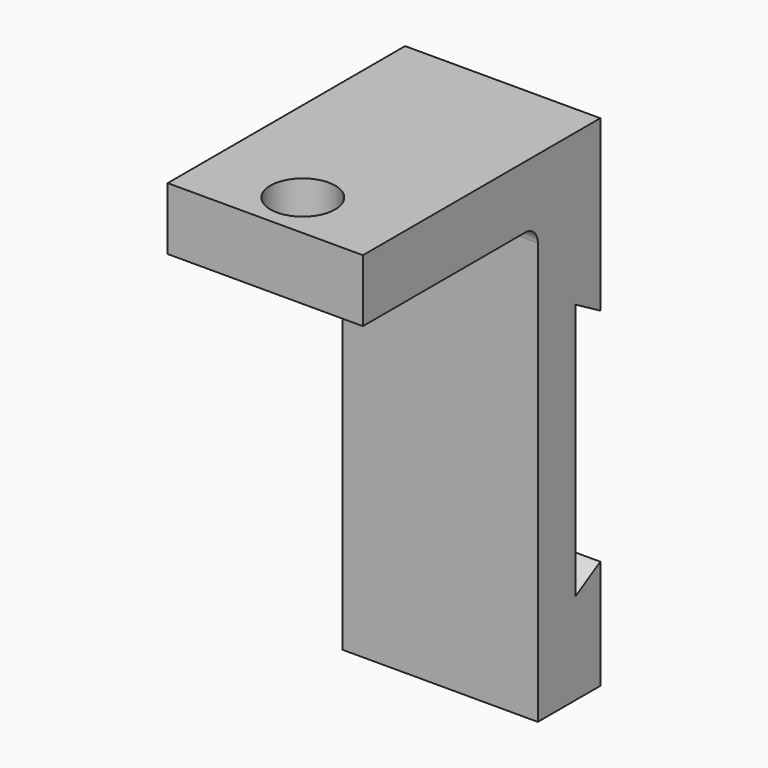
from build123d import *

# Parameters (mm, degrees)
F1_DEPTH = 12.5
F2_R     = 4.15
F3_DEPTH = 8
F4_R     = 2


with BuildPart() as f1:
    # F0 (on Right) → F1 (new body, symmetric)
    with BuildSketch(Plane.YZ):
        Polygon((0, -12.309401), (0, 20.609401), (4, 18.3), (4, 40), (-6, 40), (-34, 40), (-34, 32), (-6, 32), (-6, -24), (4, -24), (4, -10), align=None)
    extrude(amount=F1_DEPTH, both=True)

    # F2 (on face) → F3 (cut, through all)
    with BuildSketch(Plane.XY.offset(40)):
        with Locations((0, -28)):
            Circle(F2_R)
    extrude(amount=-F3_DEPTH, mode=Mode.SUBTRACT)

    # F4
    f4_edges = [f1.edges().sort_by_distance(p)[0] for p in [
        (0, -6, 32),
    ]]
    fillet(f4_edges, radius=F4_R)


solid = f1.part
